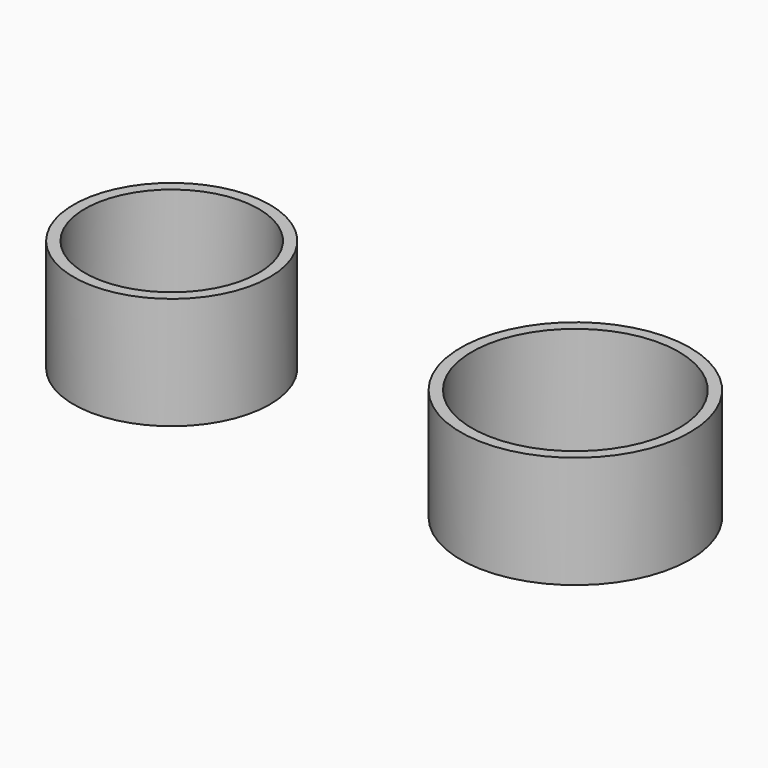
from build123d import *

# Parameters (mm, degrees)
F0_R     = 8.75
F0_R_2   = 7.75
F0_R_3   = 10.225
F0_R_4   = 9.225
F1_DEPTH = 10


with BuildPart() as f1:
    # F0 (on Top) → F1 (new body)
    with BuildSketch(Plane.XY):
        with Locations((-36, 0)):
            Circle(F0_R)
        with Locations((-36, 0)):
            Circle(F0_R_2, mode=Mode.SUBTRACT)
        Circle(F0_R_3)
        Circle(F0_R_4, mode=Mode.SUBTRACT)
    extrude(amount=F1_DEPTH)


solid = f1.part
